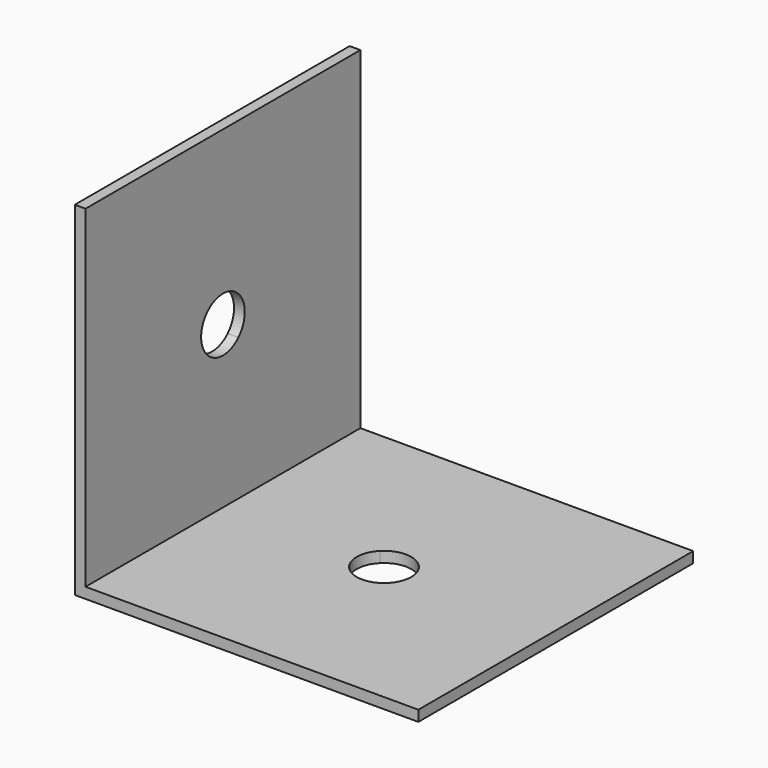
from build123d import *

# Parameters (mm, degrees)
F1_DEPTH = 32
F3_DEPTH = 25.4
F5_DEPTH = 25.4


with BuildPart() as f1:
    # F0 (on Front) → F1 (new body)
    with BuildSketch(Plane.XZ):
        Polygon((-10, 21), (-11, 21), (-11, -11), (21, -11), (21, -10), (-10, -10), align=None)
    extrude(amount=F1_DEPTH)

    # F2 (on face) → F3 (cut)
    with BuildSketch(Plane(origin=(-11, 0, 0), x_dir=(0, -1, 0), z_dir=(-1, 0, 0))):
        with BuildLine():
            Line((16, 5), (14.2039487758, 3.2039487758))
            ThreePointArc((14.2039487758, 3.2039487758), (16, 2.46), (17.7960512242, 3.2039487758))
            Line((17.7960512242, 3.2039487758), (16, 5))
        make_face()
        with BuildLine():
            ThreePointArc((14.2039487758, 6.7960512242), (13.46, 5), (14.2039487758, 3.2039487758))
            Line((14.2039487758, 3.2039487758), (16, 5))
            Line((16, 5), (14.2039487758, 6.7960512242))
        make_face()
        with BuildLine():
            Line((14.2039487758, 6.7960512242), (16, 5))
            Line((16, 5), (17.7960512242, 6.7960512242))
            ThreePointArc((17.7960512242, 6.7960512242), (16, 7.54), (14.2039487758, 6.7960512242))
        make_face()
        with BuildLine():
            Line((17.7960512242, 6.7960512242), (16, 5))
            Line((16, 5), (17.7960512242, 3.2039487758))
            ThreePointArc((17.7960512242, 3.2039487758), (18.3466540126, 4.0279840818), (18.54, 5))
            ThreePointArc((18.54, 5), (18.3466540126, 5.9720159182), (17.7960512242, 6.7960512242))
        make_face()
    extrude(amount=-F3_DEPTH, mode=Mode.SUBTRACT)

    # F4 (on face) → F5 (cut)
    with BuildSketch(Plane(origin=(0, 0, -11), x_dir=(1, 0, 0), z_dir=(0, 0, -1))):
        with BuildLine():
            Line((6.7960512242, 17.7960512242), (5, 16))
            Line((5, 16), (6.7960512242, 14.2039487758))
            ThreePointArc((6.7960512242, 14.2039487758), (7.3466540126, 15.0279840818), (7.54, 16))
            ThreePointArc((7.54, 16), (7.3466540126, 16.9720159182), (6.7960512242, 17.7960512242))
        make_face()
        with BuildLine():
            ThreePointArc((6.7960512242, 17.7960512242), (5, 18.54), (3.2039487758, 17.7960512242))
            Line((3.2039487758, 17.7960512242), (5, 16))
            Line((5, 16), (6.7960512242, 17.7960512242))
        make_face()
        with BuildLine():
            Line((6.7960512242, 14.2039487758), (5, 16))
            Line((5, 16), (3.2039487758, 14.2039487758))
            ThreePointArc((3.2039487758, 14.2039487758), (5, 13.46), (6.7960512242, 14.2039487758))
        make_face()
        with BuildLine():
            Line((5, 16), (3.2039487758, 17.7960512242))
            ThreePointArc((3.2039487758, 17.7960512242), (2.46, 16), (3.2039487758, 14.2039487758))
            Line((3.2039487758, 14.2039487758), (5, 16))
        make_face()
    extrude(amount=-F5_DEPTH, mode=Mode.SUBTRACT)


solid = f1.part
